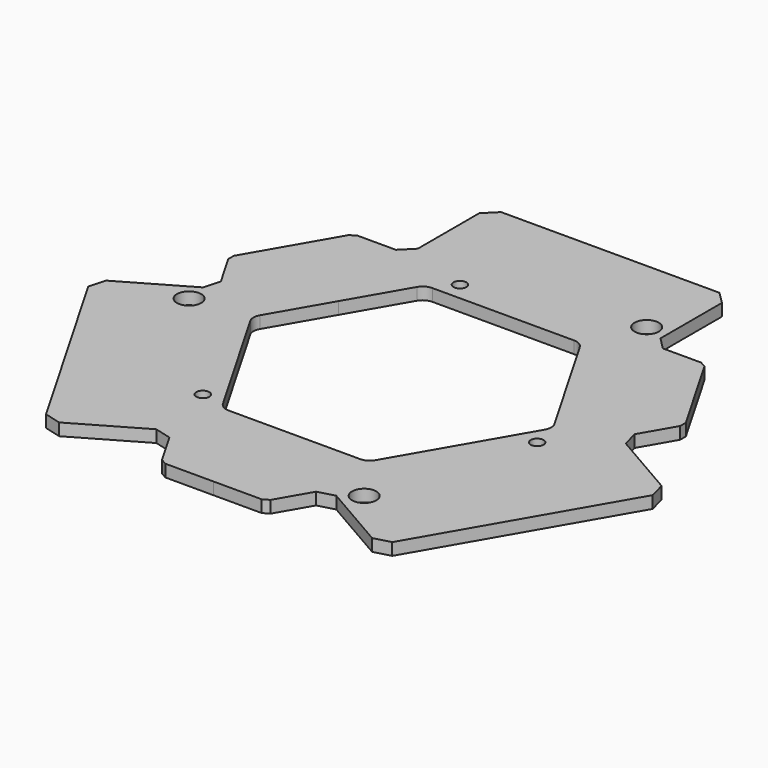
from build123d import *

# Parameters (mm, degrees)
SKETCH_R              = 1.6
PAD_DEPTH             = 3
POLARPATTERN_COUNT    = 3
POCKET_DEPTH          = 380.288671
POLARPATTERN001_COUNT = 3
CHAMFER_SIZE          = 1
FILLET_R              = 3
SKETCH066_R           = 1.6
POCKET032_DEPTH       = 3.001
SKETCH078_R           = 3
POCKET038_DEPTH       = 5
POLARPATTERN007_COUNT = 3
CHAMFER017_SIZE       = 3


with BuildPart() as part:
    # Sketch → Pad (new body)
    with BuildSketch(Plane.XY):
        Polygon((0, 0), (-49.917704, 28.82), (-56.37248, 17.64), (-49.641016, 5.980762), (-58.30127, 0.980762), (-71.291651, -6.519238), (-41.291651, -58.480762), (-28.30127, -50.980762), (-19.641016, -45.980762), (-12.909552, -57.64), (0, -57.64), align=None)
        with Locations((-51.471143, -0.849365)):
            Circle(SKETCH_R, mode=Mode.SUBTRACT)
    pad = extrude(amount=PAD_DEPTH)

    # PolarPattern: Pad ×3 about axis
    polarpattern_axis = Axis((0, 0, 0), (0, 0, 1))
    for i in range(1, POLARPATTERN_COUNT):
        add(pad.rotate(polarpattern_axis, i * 360 / POLARPATTERN_COUNT))

    # Sketch001 → Pocket (cut, through all)
    with BuildSketch(Plane.XY):
        Polygon((-28.267069, 16.32), (-37.267069, 0.731543), (-18, -32.64), (0, -32.64), (0, 0), align=None)
    pocket = extrude(amount=POCKET_DEPTH, mode=Mode.SUBTRACT)

    # PolarPattern001: Pocket ×3 about axis
    polarpattern001_axis = Axis((0, 0, 0), (0, 0, 1))
    for i in range(1, POLARPATTERN001_COUNT):
        add(pocket.rotate(polarpattern001_axis, i * 360 / POLARPATTERN001_COUNT), mode=Mode.SUBTRACT)

    # Chamfer
    chamfer_edges = [part.edges().sort_by_distance(p)[0] for p in [
        (-56.37248, 17.64, 1.5),
        (-43.462928, 40, 1.5),
        (43.462928, 40, 1.5),
        (56.37248, 17.64, 1.5),
        (12.909552, -57.64, 1.5),
        (-12.909552, -57.64, 1.5),
    ]]
    chamfer(chamfer_edges, length=CHAMFER_SIZE)

    # Fillet
    fillet_edges = [part.edges().sort_by_distance(p)[0] for p in [
        (-19.267069, 31.908457, 1.5),
        (18, -32.64, 1.5),
        (-18, -32.64, 1.5),
        (37.267069, 0.731543, 1.5),
        (19.267069, 31.908457, 1.5),
        (-37.267069, 0.731543, 1.5),
    ]]
    fillet(fillet_edges, radius=FILLET_R)

    # Sketch066 (on Binder) → Pocket032 (cut, through all)
    with BuildSketch(Plane(origin=(0, 0, 3), x_dir=(1, 0, 0), z_dir=(0, 0, -1))):
        with Locations((-24.348373, 30.5)):
            Circle(SKETCH066_R)
        with Locations((38.587961, 5.836309)):
            Circle(SKETCH066_R)
        with Locations((-14.239588, -36.336309)):
            Circle(SKETCH066_R)
    extrude(amount=POCKET032_DEPTH, mode=Mode.SUBTRACT)

    # Sketch078 (on Face44 of Pocket032) → Pocket038 (cut)
    with BuildSketch(Plane.XY.offset(3)):
        with Locations((25, 45)):
            Circle(SKETCH078_R)
    pocket038 = extrude(amount=-POCKET038_DEPTH, mode=Mode.SUBTRACT)

    # PolarPattern007: Pocket038 ×3 about axis
    polarpattern007_axis = Axis((0, 0, 3), (0, 0, 1))
    for i in range(1, POLARPATTERN007_COUNT):
        add(pocket038.rotate(polarpattern007_axis, i * 360 / POLARPATTERN007_COUNT), mode=Mode.SUBTRACT)

    # Chamfer017
    chamfer017_edges = [part.edges().sort_by_distance(p)[0] for p in [
        (-41.291651, -58.480762, 1.5),
        (-71.291651, -6.519238, 1.5),
        (-30, 65, 1.5),
        (41.291651, -58.480762, 1.5),
        (71.291651, -6.519238, 1.5),
        (30, 65, 1.5),
        (-19.641016, -45.980762, 1.5),
        (49.641016, 5.980762, 1.5),
        (-30, 40, 1.5),
        (30, 40, 1.5),
        (-49.641016, 5.980762, 1.5),
        (19.641016, -45.980762, 1.5),
    ]]
    chamfer(chamfer017_edges, length=CHAMFER017_SIZE)


solid = part.part
